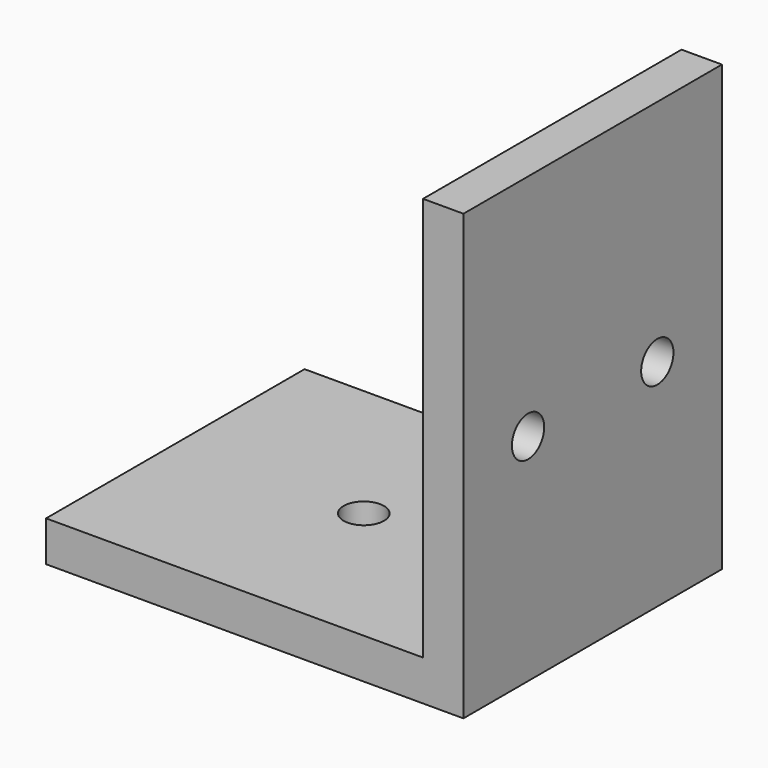
from build123d import *

# Parameters (mm, degrees)
F0_R     = 1.5
F1_DEPTH = 3
F2_W     = 3
F2_H     = 24
F3_DEPTH = 30
F4_R     = 1.5
F5_DEPTH = 25


with BuildPart() as f1:
    # F0 (on Top) → F1 (new body)
    with BuildSketch(Plane.XY):
        Polygon((-14, 0), (0, 0), (17, 0), (17, 24), (0, 24), (-14, 24), align=None)
        with Locations((0, 12)):
            Circle(F0_R, mode=Mode.SUBTRACT)
    extrude(amount=F1_DEPTH)

    # F2 (on face) → F3 (join)
    with BuildSketch(Plane.XY.offset(3)):
        with Locations((15.5, 12)):
            Rectangle(F2_W, F2_H)
    extrude(amount=F3_DEPTH)

    # F4 (on face) → F5 (cut)
    with BuildSketch(Plane.YZ.offset(17)):
        with Locations((6, 16)):
            Circle(F4_R)
        with Locations((18, 16)):
            Circle(F4_R)
    extrude(amount=-F5_DEPTH, mode=Mode.SUBTRACT)


solid = f1.part
